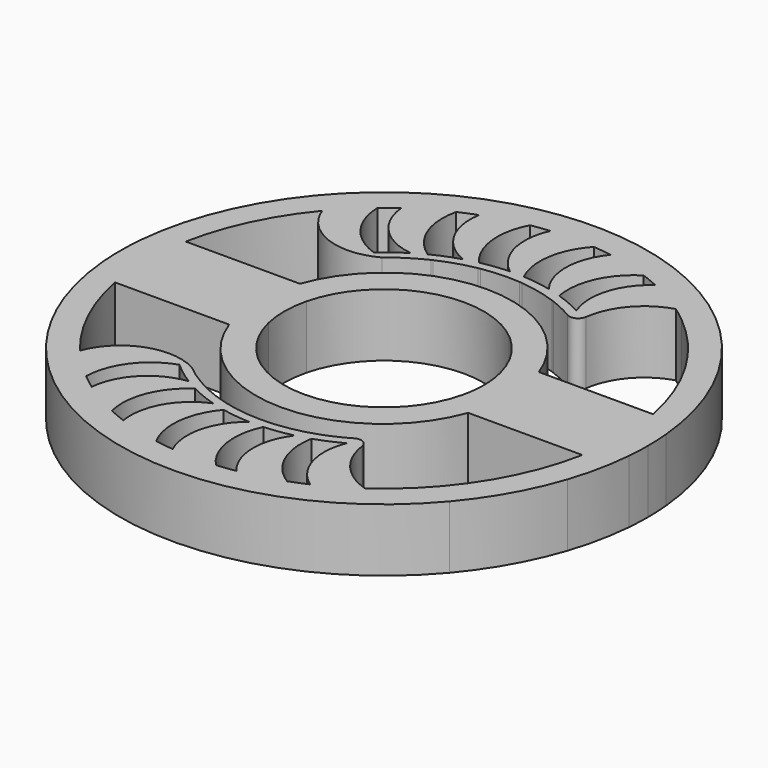
from build123d import *

# Parameters (mm, degrees)
F1_DEPTH = 7
F2_R     = 0.9790702319


with BuildPart() as f1:
    # F0 (on Top) → F1 (new body)
    with BuildSketch(Plane.XY):
        with BuildLine():
            ThreePointArc((10.7948214002, 2.6902520213), (11.0421468265, 1.3552189718), (11.125, 0))
            ThreePointArc((11.125, 0), (11.0520384564, -1.2720341811), (10.834110839, -2.5273834944))
            Line((10.834110839, -2.5273834944), (29.2972716426, -2.5273834944))
            ThreePointArc((29.2972716426, -2.5273834944), (29.3788685308, -1.2648623956), (29.4060842859, 0))
            ThreePointArc((29.4060842859, 0), (29.3752383334, 1.3465384824), (29.2827651886, 2.6902520213))
            Line((29.2827651886, 2.6902520213), (10.7948214002, 2.6902520213))
        make_face()
        with BuildLine():
            ThreePointArc((-10.7948214002, 2.6902520213), (0, 11.125), (10.7948214002, 2.6902520213))
            Line((10.7948214002, 2.6902520213), (29.2827651886, 2.6902520213))
            ThreePointArc((29.2827651886, 2.6902520213), (21.6661491314, 19.8820465457), (5.1905570504, 28.9443588725))
            ThreePointArc((5.1905570504, 28.9443588725), (-0.3590588279, 29.3804285592), (-5.8963604045, 28.8088654239))
            ThreePointArc((-5.8963604045, 28.8088654239), (-21.9074921178, 19.615799299), (-29.2827651886, 2.6902520213))
            Line((-29.2827651886, 2.6902520213), (-10.7948214002, 2.6902520213))
        make_face()
        with BuildLine():
            Line((-13.31066899, 4.9231080338), (-26.0280296206, 4.9231080338))
            ThreePointArc((-26.0280296206, 4.9231080338), (-23.9614962075, 11.2505536899), (-20.3835958898, 16.8635527273))
            ThreePointArc((-20.3835958898, 16.8635527273), (-18.7540055081, 18.6516589839), (-16.968155537, 20.2837216904))
            ThreePointArc((-16.968155537, 20.2837216904), (-16.157971434, 20.9324741615), (-15.3230075756, 21.5490075383))
            ThreePointArc((-15.3230075756, 21.5490075383), (-13.2884393539, 22.8554587387), (-11.1432759651, 23.9710557192))
            ThreePointArc((-11.1432759651, 23.9710557192), (-10.1921708018, 24.3893385992), (-9.2254018616, 24.7700214273))
            ThreePointArc((-9.2254018616, 24.7700214273), (-6.9229955795, 25.5072823603), (-4.5629878598, 26.0316790936))
            ThreePointArc((-4.5629878598, 26.0316790936), (-3.5353349968, 26.1905764714), (-2.5022400316, 26.3090398689))
            ThreePointArc((-2.5022400316, 26.3090398689), (-0.086856594, 26.4272807625), (2.3292499411, 26.3248733859))
            ThreePointArc((2.3292499411, 26.3248733859), (3.3636317253, 26.2131155394), (4.3928303709, 26.0608472241))
            ThreePointArc((4.3928303709, 26.0608472241), (6.7585552409, 25.5512140206), (9.067933799, 24.8279223518))
            ThreePointArc((9.067933799, 24.8279223518), (10.0385515301, 24.4527702217), (10.9936947526, 24.0398061493))
            ThreePointArc((10.9936947526, 24.0398061493), (13.1498400592, 22.9352159632), (15.1961169104, 21.6383608786))
            ThreePointArc((15.1961169104, 21.6383608786), (16.0366762464, 21.025207665), (16.8525227017, 20.3795363692))
            ThreePointArc((16.8525227017, 20.3795363692), (22.7905843736, 13.4529150454), (26.0280296206, 4.9231080338))
            Line((26.0280296206, 4.9231080338), (13.31066899, 4.9231080338))
            ThreePointArc((13.31066899, 4.9231080338), (0, 14.2853079997), (-13.31066899, 4.9231080338))
        make_face(mode=Mode.SUBTRACT)
        with BuildLine():
            Line((29.2972716426, -2.5273834944), (10.834110839, -2.5273834944))
            ThreePointArc((10.834110839, -2.5273834944), (0, -11.125), (-10.834110839, -2.5273834944))
            Line((-10.834110839, -2.5273834944), (-29.2972716426, -2.5273834944))
            ThreePointArc((-29.2972716426, -2.5273834944), (-28.7221006462, -6.3054522042), (-27.661828605, -9.9770251708))
            ThreePointArc((-27.661828605, -9.9770251708), (-25.2646680924, -15.001168346), (-22.001029109, -19.5108306121))
            ThreePointArc((-22.001029109, -19.5108306121), (0.3593455333, -29.4038885833), (22.4712715546, -18.9673337016))
            ThreePointArc((22.4712715546, -18.9673337016), (25.6237269203, -14.3792602132), (27.8973895135, -9.2980348118))
            ThreePointArc((27.8973895135, -9.2980348118), (28.797009324, -5.9539942075), (29.2972716426, -2.5273834944))
        make_face()
        with BuildLine():
            Line((13.31066899, -4.9231080338), (26.0280296206, -4.9231080338))
            ThreePointArc((26.0280296206, -4.9231080338), (22.7905843736, -13.4529150454), (16.8525227017, -20.3795363692))
            ThreePointArc((16.8525227017, -20.3795363692), (16.0366762464, -21.025207665), (15.1961169104, -21.6383608786))
            ThreePointArc((15.1961169104, -21.6383608786), (13.1498400592, -22.9352159632), (10.9936947526, -24.0398061493))
            ThreePointArc((10.9936947526, -24.0398061493), (10.0385515301, -24.4527702217), (9.067933799, -24.8279223518))
            ThreePointArc((9.067933799, -24.8279223518), (6.7585552409, -25.5512140206), (4.3928303709, -26.0608472241))
            ThreePointArc((4.3928303709, -26.0608472241), (3.3636317253, -26.2131155394), (2.3292499411, -26.3248733859))
            ThreePointArc((2.3292499411, -26.3248733859), (-0.086856594, -26.4272807625), (-2.5022400316, -26.3090398689))
            ThreePointArc((-2.5022400316, -26.3090398689), (-3.5353349968, -26.1905764714), (-4.5629878598, -26.0316790936))
            ThreePointArc((-4.5629878598, -26.0316790936), (-6.9229955795, -25.5072823603), (-9.2254018616, -24.7700214273))
            ThreePointArc((-9.2254018616, -24.7700214273), (-10.1921708018, -24.3893385992), (-11.1432759651, -23.9710557192))
            ThreePointArc((-11.1432759651, -23.9710557192), (-13.2884393539, -22.8554587387), (-15.3230075756, -21.5490075383))
            ThreePointArc((-15.3230075756, -21.5490075383), (-16.157971434, -20.9324741615), (-16.968155537, -20.2837216904))
            ThreePointArc((-16.968155537, -20.2837216904), (-18.7540055081, -18.6516589839), (-20.3835958898, -16.8635527273))
            ThreePointArc((-20.3835958898, -16.8635527273), (-23.9614962075, -11.2505536899), (-26.0280296206, -4.9231080338))
            Line((-26.0280296206, -4.9231080338), (-13.31066899, -4.9231080338))
            ThreePointArc((-13.31066899, -4.9231080338), (0, -14.2853079997), (13.31066899, -4.9231080338))
        make_face(mode=Mode.SUBTRACT)
        with BuildLine():
            ThreePointArc((-10.834110839, -2.5273834944), (-11.1246846043, 0.0837702469), (-10.7948214002, 2.6902520213))
            Line((-10.7948214002, 2.6902520213), (-29.2827651886, 2.6902520213))
            ThreePointArc((-29.2827651886, 2.6902520213), (-29.4059706332, 0.0817566423), (-29.2972716426, -2.5273834944))
            Line((-29.2972716426, -2.5273834944), (-10.834110839, -2.5273834944))
        make_face()
        with BuildLine():
            ThreePointArc((-5.8963604045, 28.8088654239), (-0.3590588279, 29.3804285592), (5.1905570504, 28.9443588725))
            ThreePointArc((5.1905570504, 28.9443588725), (-0.3593455333, 29.4038885833), (-5.8963604045, 28.8088654239))
        make_face()
        with BuildLine():
            ThreePointArc((22.4712715546, -18.9673337016), (25.6441872498, -14.3907419311), (27.8973895135, -9.2980348118))
            ThreePointArc((27.8973895135, -9.2980348118), (25.6237269203, -14.3792602132), (22.4712715546, -18.9673337016))
        make_face()
        with BuildLine():
            ThreePointArc((-22.001029109, -19.5108306121), (-25.2646680924, -15.001168346), (-27.661828605, -9.9770251708))
            ThreePointArc((-27.661828605, -9.9770251708), (-25.2848417165, -15.0131466522), (-22.001029109, -19.5108306121))
        make_face()
        with BuildLine():
            ThreePointArc((-16.968155537, 20.2837216904), (-18.7540055081, 18.6516589839), (-20.3835958898, 16.8635527273))
            ThreePointArc((-20.3835958898, 16.8635527273), (-16.4237767543, 12.8685627923), (-10.8120366931, 13.2539011538))
            ThreePointArc((-10.8120366931, 13.2539011538), (-11.3877425092, 13.3716856065), (-11.952184581, 13.5351344105))
            ThreePointArc((-11.952184581, 13.5351344105), (-15.5219666216, 16.120234624), (-16.968155537, 20.2837216904))
        make_face()
        with BuildLine():
            ThreePointArc((-11.1432759651, 23.9710557192), (-13.2884393539, 22.8554587387), (-15.3230075756, 21.5490075383))
            ThreePointArc((-15.3230075756, 21.5490075383), (-13.4338306896, 17.4553327151), (-9.3905463058, 15.4605860504))
            ThreePointArc((-9.3905463058, 15.4605860504), (-8.7457919185, 15.8422071116), (-8.0856914424, 16.1966224269))
            ThreePointArc((-8.0856914424, 16.1966224269), (-10.8280426159, 19.6065619767), (-11.1432759651, 23.9710557192))
        make_face()
        with BuildLine():
            ThreePointArc((-4.5629878598, 26.0316790936), (-6.9229955795, 25.5072823603), (-9.2254018616, 24.7700214273))
            ThreePointArc((-9.2254018616, 24.7700214273), (-8.4713054235, 20.3607917123), (-5.1285115773, 17.3883016081))
            ThreePointArc((-5.1285115773, 17.3883016081), (-4.391303482, 17.5946728312), (-3.6459751832, 17.7694600863))
            ThreePointArc((-3.6459751832, 17.7694600863), (-5.3864746259, 21.7582828838), (-4.5629878598, 26.0316790936))
        make_face()
        with BuildLine():
            ThreePointArc((2.3292499411, 26.3248733859), (-0.086856594, 26.4272807625), (-2.5022400316, 26.3090398689))
            ThreePointArc((-2.5022400316, 26.3090398689), (-2.9178873234, 21.8796706329), (-0.4903026388, 18.1515468286))
            ThreePointArc((-0.4903026388, 18.1515468286), (0.2873813704, 18.1595563253), (1.0646836919, 18.1339112225))
            ThreePointArc((1.0646836919, 18.1339112225), (0.4306528317, 22.424892893), (2.3292499411, 26.3248733859))
        make_face()
        with BuildLine():
            ThreePointArc((5.719252127, 17.2541949825), (6.2239003829, 21.5582317727), (9.067933799, 24.8279223518))
            ThreePointArc((9.067933799, 24.8279223518), (6.7585552409, 25.5512140206), (4.3928303709, 26.0608472241))
            ThreePointArc((4.3928303709, 26.0608472241), (2.8446977274, 21.9029172485), (4.2084638325, 17.6809226518))
            ThreePointArc((4.2084638325, 17.6809226518), (4.9685198407, 17.4840636876), (5.719252127, 17.2541949825))
        make_face()
        with BuildLine():
            ThreePointArc((9.9899137278, 15.1838186306), (11.5944929534, 19.2164931617), (15.1961169104, 21.6383608786))
            ThreePointArc((15.1961169104, 21.6383608786), (13.1498400592, 22.9352159632), (10.9936947526, 24.0398061493))
            ThreePointArc((10.9936947526, 24.0398061493), (8.4182195009, 20.4256730989), (8.6395795861, 15.9932888432))
            ThreePointArc((8.6395795861, 15.9932888432), (9.3236150801, 15.6033477767), (9.9899137278, 15.1838186306))
        make_face()
        with BuildLine():
            ThreePointArc((4.3928303709, -26.0608472241), (6.7585552409, -25.5512140206), (9.067933799, -24.8279223518))
            ThreePointArc((9.067933799, -24.8279223518), (6.2239003829, -21.5582317727), (5.719252127, -17.2541949825))
            ThreePointArc((5.719252127, -17.2541949825), (4.9685198407, -17.4840636876), (4.2084638325, -17.6809226518))
            ThreePointArc((4.2084638325, -17.6809226518), (2.8446977274, -21.9029172485), (4.3928303709, -26.0608472241))
        make_face()
        with BuildLine():
            ThreePointArc((-2.5022400316, -26.3090398689), (-0.086856594, -26.4272807625), (2.3292499411, -26.3248733859))
            ThreePointArc((2.3292499411, -26.3248733859), (0.4306528317, -22.424892893), (1.0646836919, -18.1339112225))
            ThreePointArc((1.0646836919, -18.1339112225), (0.2873813704, -18.1595563253), (-0.4903026388, -18.1515468286))
            ThreePointArc((-0.4903026388, -18.1515468286), (-2.9178873234, -21.8796706329), (-2.5022400316, -26.3090398689))
        make_face()
        with BuildLine():
            ThreePointArc((-5.1285115773, -17.3883016081), (-8.4713054235, -20.3607917123), (-9.2254018616, -24.7700214273))
            ThreePointArc((-9.2254018616, -24.7700214273), (-6.9229955795, -25.5072823603), (-4.5629878598, -26.0316790936))
            ThreePointArc((-4.5629878598, -26.0316790936), (-5.3864746259, -21.7582828838), (-3.6459751832, -17.7694600863))
            ThreePointArc((-3.6459751832, -17.7694600863), (-4.391303482, -17.5946728312), (-5.1285115773, -17.3883016081))
        make_face()
        with BuildLine():
            ThreePointArc((-9.3905463058, -15.4605860504), (-13.4338306896, -17.4553327151), (-15.3230075756, -21.5490075383))
            ThreePointArc((-15.3230075756, -21.5490075383), (-13.2884393539, -22.8554587387), (-11.1432759651, -23.9710557192))
            ThreePointArc((-11.1432759651, -23.9710557192), (-10.8280426159, -19.6065619767), (-8.0856914424, -16.1966224269))
            ThreePointArc((-8.0856914424, -16.1966224269), (-8.7457919185, -15.8422071116), (-9.3905463058, -15.4605860504))
        make_face()
        with BuildLine():
            ThreePointArc((-10.8120366931, -13.2539011538), (-16.4237767543, -12.8685627923), (-20.3835958898, -16.8635527273))
            ThreePointArc((-20.3835958898, -16.8635527273), (-18.7540055081, -18.6516589839), (-16.968155537, -20.2837216904))
            ThreePointArc((-16.968155537, -20.2837216904), (-15.5219666216, -16.120234624), (-11.952184581, -13.5351344105))
            ThreePointArc((-11.952184581, -13.5351344105), (-11.3877425092, -13.3716856065), (-10.8120366931, -13.2539011538))
        make_face()
        with BuildLine():
            ThreePointArc((10.9936947526, -24.0398061493), (13.1498400592, -22.9352159632), (15.1961169104, -21.6383608786))
            ThreePointArc((15.1961169104, -21.6383608786), (11.5944929534, -19.2164931617), (9.9899137278, -15.1838186306))
            ThreePointArc((9.9899137278, -15.1838186306), (9.3236150801, -15.6033477767), (8.6395795861, -15.9932888432))
            ThreePointArc((8.6395795861, -15.9932888432), (8.4182195009, -20.4256730989), (10.9936947526, -24.0398061493))
        make_face()
        with BuildLine():
            ThreePointArc((-7.2120535057, -15.5560103576), (-9.0850367785, -14.5190983937), (-10.8120366931, -13.2539011538))
            ThreePointArc((-10.8120366931, -13.2539011538), (-11.3877425092, -13.3716856065), (-11.952184581, -13.5351344105))
            ThreePointArc((-11.952184581, -13.5351344105), (-10.7143685483, -14.5550719501), (-9.3905463058, -15.4605860504))
            ThreePointArc((-9.3905463058, -15.4605860504), (-8.2974260924, -15.4198608363), (-7.2120535057, -15.5560103576))
        make_face()
        with BuildLine():
            ThreePointArc((-3.0563751469, -16.9000915771), (-5.1008157288, -16.3874412487), (-7.065623701, -15.6245013528))
            ThreePointArc((-7.065623701, -15.6245013528), (-7.5870680168, -15.8902175474), (-8.0856914424, -16.1966224269))
            ThreePointArc((-8.0856914424, -16.1966224269), (-6.6335804196, -16.8581700538), (-5.1285115773, -17.3883016081))
            ThreePointArc((-5.1285115773, -17.3883016081), (-4.1117865779, -17.0620971276), (-3.0563751469, -16.9000915771))
        make_face()
        with BuildLine():
            ThreePointArc((-3.6459751832, -17.7694600863), (-2.0766033052, -18.0304112905), (-0.4903026388, -18.1515468286))
            ThreePointArc((-0.4903026388, -18.1515468286), (0.4053580189, -17.5660326473), (1.3822041965, -17.1292187103))
            ThreePointArc((1.3822041965, -17.1292187103), (-0.7190675771, -17.1670934636), (-2.808816068, -16.944093894))
            ThreePointArc((-2.808816068, -16.944093894), (-3.2439423396, -17.3399938549), (-3.6459751832, -17.7694600863))
        make_face()
        with BuildLine():
            ThreePointArc((1.0646836919, -18.1339112225), (2.6466010159, -17.9770069514), (4.2084638325, -17.6809226518))
            ThreePointArc((4.2084638325, -17.6809226518), (4.9398401461, -16.8607875237), (5.7944535771, -16.1700134479))
            ThreePointArc((5.7944535771, -16.1700134479), (3.7591133158, -16.7667631027), (1.6650912995, -17.1040936898))
            ThreePointArc((1.6650912995, -17.1040936898), (1.3439521578, -17.6067966665), (1.0646836919, -18.1339112225))
        make_face()
        with BuildLine():
            ThreePointArc((5.719252127, -17.2541949825), (7.2073681316, -16.688480908), (8.6395795861, -15.9932888432))
            ThreePointArc((8.6395795861, -15.9932888432), (9.1637537825, -14.961708981), (9.8562107126, -14.0346604386))
            ThreePointArc((9.8562107126, -14.0346604386), (8.0134495993, -15.1795023004), (6.0393096262, -16.0790592892))
            ThreePointArc((6.0393096262, -16.0790592892), (5.8548709488, -16.6599788989), (5.719252127, -17.2541949825))
        make_face()
        with BuildLine():
            ThreePointArc((8.6395795861, -15.9932888432), (9.3236150801, -15.6033477767), (9.9899137278, -15.1838186306))
            ThreePointArc((9.9899137278, -15.1838186306), (9.9673948078, -14.557763324), (9.9983286764, -13.9320673559))
            ThreePointArc((9.9983286764, -13.9320673559), (9.9274025902, -13.9835479921), (9.8562107126, -14.0346604386))
            ThreePointArc((9.8562107126, -14.0346604386), (9.1637537825, -14.961708981), (8.6395795861, -15.9932888432))
        make_face()
        with BuildLine():
            ThreePointArc((4.2084638325, -17.6809226518), (4.9685198407, -17.4840636876), (5.719252127, -17.2541949825))
            ThreePointArc((5.719252127, -17.2541949825), (5.8548709488, -16.6599788989), (6.0393096262, -16.0790592892))
            ThreePointArc((6.0393096262, -16.0790592892), (5.9170571783, -16.1250090352), (5.7944535771, -16.1700134479))
            ThreePointArc((5.7944535771, -16.1700134479), (4.9398401461, -16.8607875237), (4.2084638325, -17.6809226518))
        make_face()
        with BuildLine():
            ThreePointArc((-0.4903026388, -18.1515468286), (0.2873813704, -18.1595563253), (1.0646836919, -18.1339112225))
            ThreePointArc((1.0646836919, -18.1339112225), (1.3439521578, -17.6067966665), (1.6650912995, -17.1040936898))
            ThreePointArc((1.6650912995, -17.1040936898), (1.5237004822, -17.1172499441), (1.3822041965, -17.1292187103))
            ThreePointArc((1.3822041965, -17.1292187103), (0.4053580189, -17.5660326473), (-0.4903026388, -18.1515468286))
        make_face()
        with BuildLine():
            ThreePointArc((-2.808816068, -16.944093894), (-2.9326773736, -16.9225527559), (-3.0563751469, -16.9000915771))
            ThreePointArc((-3.0563751469, -16.9000915771), (-4.1117865779, -17.0620971276), (-5.1285115773, -17.3883016081))
            ThreePointArc((-5.1285115773, -17.3883016081), (-4.391303482, -17.5946728312), (-3.6459751832, -17.7694600863))
            ThreePointArc((-3.6459751832, -17.7694600863), (-3.2439423396, -17.3399938549), (-2.808816068, -16.944093894))
        make_face()
        with BuildLine():
            ThreePointArc((-7.065623701, -15.6245013528), (-7.1389204285, -15.5904307928), (-7.2120535057, -15.5560103576))
            ThreePointArc((-7.2120535057, -15.5560103576), (-8.2974260924, -15.4198608363), (-9.3905463058, -15.4605860504))
            ThreePointArc((-9.3905463058, -15.4605860504), (-8.7457919185, -15.8422071116), (-8.0856914424, -16.1966224269))
            ThreePointArc((-8.0856914424, -16.1966224269), (-7.5870680168, -15.8902175474), (-7.065623701, -15.6245013528))
        make_face()
        with BuildLine():
            ThreePointArc((-11.952184581, 13.5351344105), (-11.3877425092, 13.3716856065), (-10.8120366931, 13.2539011538))
            ThreePointArc((-10.8120366931, 13.2539011538), (-9.0850367785, 14.5190983937), (-7.2120535057, 15.5560103576))
            ThreePointArc((-7.2120535057, 15.5560103576), (-8.2974260924, 15.4198608363), (-9.3905463058, 15.4605860504))
            ThreePointArc((-9.3905463058, 15.4605860504), (-10.7143685483, 14.5550719501), (-11.952184581, 13.5351344105))
        make_face()
        with BuildLine():
            ThreePointArc((-5.1285115773, 17.3883016081), (-4.1117865779, 17.0620971276), (-3.0563751469, 16.9000915771))
            ThreePointArc((-3.0563751469, 16.9000915771), (-2.9326773736, 16.9225527559), (-2.808816068, 16.944093894))
            ThreePointArc((-2.808816068, 16.944093894), (-3.2439423396, 17.3399938549), (-3.6459751832, 17.7694600863))
            ThreePointArc((-3.6459751832, 17.7694600863), (-4.391303482, 17.5946728312), (-5.1285115773, 17.3883016081))
        make_face()
        with BuildLine():
            ThreePointArc((1.0646836919, 18.1339112225), (1.3439521578, 17.6067966665), (1.6650912995, 17.1040936898))
            ThreePointArc((1.6650912995, 17.1040936898), (3.7591133158, 16.7667631027), (5.7944535771, 16.1700134479))
            ThreePointArc((5.7944535771, 16.1700134479), (4.9398401461, 16.8607875237), (4.2084638325, 17.6809226518))
            ThreePointArc((4.2084638325, 17.6809226518), (2.6466010159, 17.9770069514), (1.0646836919, 18.1339112225))
        make_face()
        with BuildLine():
            ThreePointArc((-9.3905463058, 15.4605860504), (-8.2974260924, 15.4198608363), (-7.2120535057, 15.5560103576))
            ThreePointArc((-7.2120535057, 15.5560103576), (-7.1389204285, 15.5904307928), (-7.065623701, 15.6245013528))
            ThreePointArc((-7.065623701, 15.6245013528), (-7.5870680168, 15.8902175474), (-8.0856914424, 16.1966224269))
            ThreePointArc((-8.0856914424, 16.1966224269), (-8.7457919185, 15.8422071116), (-9.3905463058, 15.4605860504))
        make_face()
        with BuildLine():
            ThreePointArc((-8.0856914424, 16.1966224269), (-7.5870680168, 15.8902175474), (-7.065623701, 15.6245013528))
            ThreePointArc((-7.065623701, 15.6245013528), (-5.1008157288, 16.3874412487), (-3.0563751469, 16.9000915771))
            ThreePointArc((-3.0563751469, 16.9000915771), (-4.1117865779, 17.0620971276), (-5.1285115773, 17.3883016081))
            ThreePointArc((-5.1285115773, 17.3883016081), (-6.6335804196, 16.8581700538), (-8.0856914424, 16.1966224269))
        make_face()
        with BuildLine():
            ThreePointArc((-3.6459751832, 17.7694600863), (-3.2439423396, 17.3399938549), (-2.808816068, 16.944093894))
            ThreePointArc((-2.808816068, 16.944093894), (-0.7190675771, 17.1670934636), (1.3822041965, 17.1292187103))
            ThreePointArc((1.3822041965, 17.1292187103), (0.4053580189, 17.5660326473), (-0.4903026388, 18.1515468286))
            ThreePointArc((-0.4903026388, 18.1515468286), (-2.0766033052, 18.0304112905), (-3.6459751832, 17.7694600863))
        make_face()
        with BuildLine():
            ThreePointArc((6.0393096262, 16.0790592892), (5.8548709488, 16.6599788989), (5.719252127, 17.2541949825))
            ThreePointArc((5.719252127, 17.2541949825), (4.9685198407, 17.4840636876), (4.2084638325, 17.6809226518))
            ThreePointArc((4.2084638325, 17.6809226518), (4.9398401461, 16.8607875237), (5.7944535771, 16.1700134479))
            ThreePointArc((5.7944535771, 16.1700134479), (5.9170571783, 16.1250090352), (6.0393096262, 16.0790592892))
        make_face()
        with BuildLine():
            ThreePointArc((9.8562107126, 14.0346604386), (9.1637537825, 14.961708981), (8.6395795861, 15.9932888432))
            ThreePointArc((8.6395795861, 15.9932888432), (7.2073681316, 16.688480908), (5.719252127, 17.2541949825))
            ThreePointArc((5.719252127, 17.2541949825), (5.8548709488, 16.6599788989), (6.0393096262, 16.0790592892))
            ThreePointArc((6.0393096262, 16.0790592892), (8.0134495993, 15.1795023004), (9.8562107126, 14.0346604386))
        make_face()
        with BuildLine():
            ThreePointArc((-0.4903026388, 18.1515468286), (0.4053580189, 17.5660326473), (1.3822041965, 17.1292187103))
            ThreePointArc((1.3822041965, 17.1292187103), (1.5237004822, 17.1172499441), (1.6650912995, 17.1040936898))
            ThreePointArc((1.6650912995, 17.1040936898), (1.3439521578, 17.6067966665), (1.0646836919, 18.1339112225))
            ThreePointArc((1.0646836919, 18.1339112225), (0.2873813704, 18.1595563253), (-0.4903026388, 18.1515468286))
        make_face()
        with BuildLine():
            ThreePointArc((9.9983286764, 13.9320673559), (9.9673948078, 14.557763324), (9.9899137278, 15.1838186306))
            ThreePointArc((9.9899137278, 15.1838186306), (9.3236150801, 15.6033477767), (8.6395795861, 15.9932888432))
            ThreePointArc((8.6395795861, 15.9932888432), (9.1637537825, 14.961708981), (9.8562107126, 14.0346604386))
            ThreePointArc((9.8562107126, 14.0346604386), (9.9274025902, 13.9835479921), (9.9983286764, 13.9320673559))
        make_face()
    extrude(amount=F1_DEPTH)

    # F2
    f2_edges = [f1.edges().sort_by_distance(p)[0] for p in [
        (9.998329, 13.932067, 3.5),
        (9.998329, -13.932067, 3.5),
    ]]
    fillet(f2_edges, radius=F2_R)


solid = f1.part
